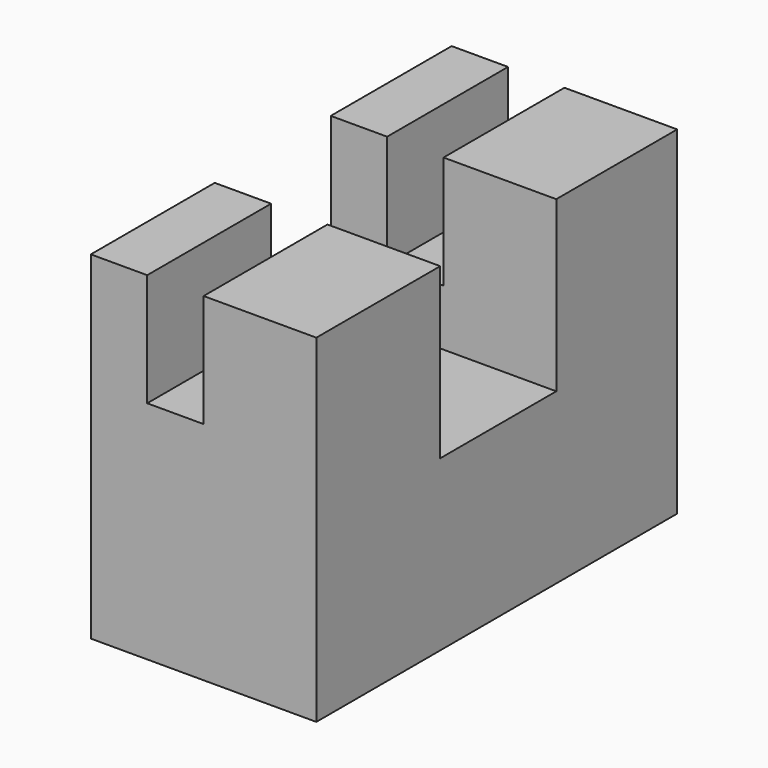
from build123d import *

# Parameters (mm, degrees)
F0_W     = 152.4
F0_H     = 101.6
F1_DEPTH = 38.1
F2_W     = 12.7
F2_H     = 101.6
F3_DEPTH = 25.4
F4_W     = 152.4
F4_H     = 32.6725877821
F5_DEPTH = 38.1
F6_W     = 12.7
F6_H     = 34.8848986059
F7_DEPTH = 76.201


with BuildPart() as f1:
    # F0 (on Top) → F1 (new body, symmetric)
    with BuildSketch(Plane.XY):
        Rectangle(F0_W, F0_H)
    extrude(amount=F1_DEPTH, both=True)

    # F2 (on face) → F3 (cut)
    with BuildSketch(Plane.XY.offset(38.1)):
        with Locations((44.45, 0)):
            Rectangle(F2_W, F2_H)
    extrude(amount=-F3_DEPTH, mode=Mode.SUBTRACT)

    # F4 (on face) → F5 (cut)
    with BuildSketch(Plane.XY.offset(38.1)):
        with Locations((0, 0.421192497)):
            Rectangle(F4_W, F4_H)
    extrude(amount=-F5_DEPTH, mode=Mode.SUBTRACT)

    # F6 (on face) → F7 (intersect, through all)
    with BuildSketch(Plane.XY.offset(38.1)):
        Polygon((38.1, -15.9151013941), (38.1, -50.8), (76.2, -50.8), (76.2, 50.8), (50.8, 50.8), (25.4, 50.8), (25.4, -15.9151013941), align=None)
        with Locations((31.75, -33.357550697)):
            Rectangle(F6_W, F6_H)
    extrude(amount=-F7_DEPTH, mode=Mode.INTERSECT)


solid = f1.part
